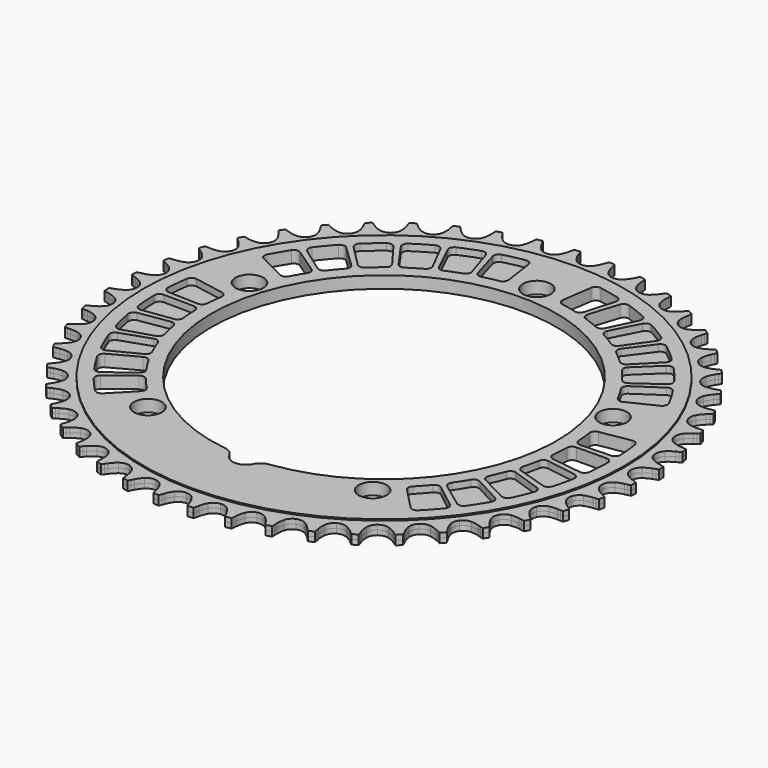
from build123d import *

# Parameters (mm, degrees)
F0_R     = 90.505656047
F0_R_2   = 5.25
F1_DEPTH = 2.25
F2_DEPTH = 1.75
F3_R     = 5.08
F5_DEPTH = 4.5
F6_DEPTH = 2.5
F7_R     = 2


with BuildPart() as f1:
    # F0 (on Top) → F1 (new body, symmetric)
    with BuildSketch(Plane.XY):
        Circle(F0_R)
        with Locations((-42.3205381651, -58.249223595)):
            Circle(F0_R_2, mode=Mode.SUBTRACT)
        with BuildLine():
            ThreePointArc((-4.9963004061, -64.8076892988), (-44.1601636013, 47.6956975073), (64.999997, 0))
            ThreePointArc((64.999997, 0), (47.6956975073, -44.1601636013), (4.9963004061, -64.8076892988))
            ThreePointArc((4.9963004061, -64.8076892988), (4.999075016, -64.903825358), (5, -64.999997))
            ThreePointArc((5, -64.999997), (-0.096171642, -69.999072016), (-4.9963004061, -64.8076892988))
        make_face(mode=Mode.SUBTRACT)
        with Locations((42.3205381651, -58.249223595)):
            Circle(F0_R_2, mode=Mode.SUBTRACT)
        with Locations((-68.4760691733, 22.249223595)):
            Circle(F0_R_2, mode=Mode.SUBTRACT)
        with Locations((0, 72)):
            Circle(F0_R_2, mode=Mode.SUBTRACT)
        with Locations((68.4760691733, 22.249223595)):
            Circle(F0_R_2, mode=Mode.SUBTRACT)
    extrude(amount=F1_DEPTH, both=True)

    # F0 (on Top) → F2 (join, symmetric)
    with BuildSketch(Plane.XY):
        with BuildLine():
            ThreePointArc((-3.2373294438, 94.6456806146), (-4.0536630433, 95.9326331176), (-4.6730144046, 97.3251312978))
            Line((-4.6730144046, 97.3251312978), (-5.0341073281, 98.3495588035))
            ThreePointArc((-5.0341073281, 98.3495588035), (-5.2235150994, 98.8412843283), (-5.4526645442, 99.3157944204))
            ThreePointArc((-5.4526645442, 99.3157944204), (-6.5053460347, 99.2524007013), (-7.5572962298, 99.1778495718))
            ThreePointArc((-7.5572962298, 99.1778495718), (-7.7225492739, 98.6774889748), (-7.8461535751, 98.1652475549))
            Line((-7.8461535751, 98.1652475549), (-8.0704426771, 97.1024520841))
            ThreePointArc((-8.0704426771, 97.1024520841), (-8.5027379165, 95.6410253441), (-9.1441066591, 94.2585299818))
            ThreePointArc((-9.1441066591, 94.2585299818), (-10.3972456968, 92.8765155439), (-12.1396749614, 92.2099860156))
            ThreePointArc((-12.1396749614, 92.2099860156), (-13.9952429247, 92.4028302225), (-15.5633739423, 93.4134174113))
            ThreePointArc((-15.5633739423, 93.4134174113), (-16.5407047045, 94.5828069409), (-17.3365149142, 95.8825505313))
            Line((-17.3365149142, 95.8825505313), (-17.8282332592, 96.8510818334))
            ThreePointArc((-17.8282332592, 96.8510818334), (-18.0802036811, 97.313877903), (-18.3693287162, 97.754418491))
            ThreePointArc((-18.3693287162, 97.754418491), (-19.4047298298, 97.5541646073), (-20.4379495701, 97.3429442197))
            ThreePointArc((-20.4379495701, 97.3429442197), (-20.5364786881, 96.8252944264), (-20.5921646153, 96.3013017041))
            Line((-20.5921646153, 96.3013017041), (-20.675812247, 95.2183229934))
            ThreePointArc((-20.675812247, 95.2183229934), (-20.9136546731, 93.7129731102), (-21.3690845618, 92.2585897677))
            ThreePointArc((-21.3690845618, 92.2585897677), (-22.4311137391, 90.7248311879), (-24.0716367186, 89.836571255))
            ThreePointArc((-24.0716367186, 89.836571255), (-25.9365012607, 89.7855654324), (-27.6231247977, 90.582824737))
            ThreePointArc((-27.6231247977, 90.582824737), (-28.7447303222, 91.6146427142), (-29.703382847, 92.7993927416))
            Line((-29.703382847, 92.7993927416), (-30.3173131763, 93.6954560009))
            ThreePointArc((-30.3173131763, 93.6954560009), (-30.6275349651, 94.1214040462), (-30.9716885809, 94.5204373585))
            ThreePointArc((-30.9716885809, 94.5204373585), (-31.9720933175, 94.1867497098), (-32.9689039268, 93.8424741035))
            ThreePointArc((-32.9689039268, 93.8424741035), (-32.9990232581, 93.3163922453), (-32.9858380097, 92.7896138813))
            Line((-32.9858380097, 92.7896138813), (-32.9274129369, 91.7049819968))
            ThreePointArc((-32.9274129369, 91.7049819968), (-32.9667329999, 90.1814659243), (-33.228431503, 88.6800795037))
            ThreePointArc((-33.228431503, 88.6800795037), (-34.0811792063, 87.0208198167), (-35.5917260975, 85.9260278528))
            ThreePointArc((-35.5917260975, 85.9260278528), (-37.4339788691, 85.6320447244), (-39.2102363292, 86.2023348172))
            ThreePointArc((-39.2102363292, 86.2023348172), (-40.4569256346, 87.0789265502), (-41.5620176639, 88.1284116132))
            Line((-41.5620176639, 88.1284116132), (-42.2876554594, 88.9366749389))
            ThreePointArc((-42.2876554594, 88.9366749389), (-42.6508206342, 89.3184868708), (-43.0441142669, 89.6691853368))
            ThreePointArc((-43.0441142669, 89.6691853368), (-43.9924054242, 89.2077734112), (-44.9357511966, 88.7363332372))
            ThreePointArc((-44.9357511966, 88.7363332372), (-44.896945391, 88.2108207207), (-44.8151145703, 87.6902700389))
            Line((-44.8151145703, 87.6902700389), (-44.6156164623, 86.6225433328))
            ThreePointArc((-44.6156164623, 86.6225433328), (-44.4557413849, 85.1069288534), (-44.5192307686, 83.5842284926))
            ThreePointArc((-44.5192307686, 83.5842284926), (-45.1481062482, 81.8278580916), (-46.502831175, 80.5452662909))
            ThreePointArc((-46.502831175, 80.5452662909), (-48.2909507205, 80.0133359895), (-50.126449846, 80.3468990488))
            ThreePointArc((-50.126449846, 80.3468990488), (-51.4768917326, 81.0532658101), (-52.7095148355, 81.9495289282))
            Line((-52.7095148355, 81.9495289282), (-53.5344442332, 82.6561627108))
            ThreePointArc((-53.5344442332, 82.6561627108), (-53.9443389373, 82.9873056213), (-54.3800432238, 83.283668693))
            ThreePointArc((-54.3800432238, 83.283668693), (-55.2599952771, 82.7024273765), (-56.1337353049, 82.111889107))
            ThreePointArc((-56.1337353049, 82.111889107), (-56.0266683406, 81.5959375969), (-55.8775920955, 81.0905213638))
            Line((-55.8775920955, 81.0905213638), (-55.5404344202, 80.0579689361))
            ThreePointArc((-55.5404344202, 80.0579689361), (-55.1840997094, 78.5761886337), (-55.0482936526, 77.0582281581))
            ThreePointArc((-55.0482936526, 77.0582281581), (-55.4425366748, 75.2347990276), (-56.6182599181, 73.7863528914))
            ThreePointArc((-56.6182599181, 73.7863528914), (-58.3216510162, 73.0255768919), (-60.1849859083, 73.1167055614))
            ThreePointArc((-60.1849859083, 73.1167055614), (-61.616073941, 73.6407612198), (-62.9551375944, 74.3684670827))
            Line((-62.9551375944, 74.3684670827), (-63.8652438237, 74.9613806221))
            ThreePointArc((-63.8652438237, 74.9613806221), (-64.3148546449, 75.2361885642), (-64.7855145642, 75.4731453873))
            ThreePointArc((-64.7855145642, 75.4731453873), (-65.5820712898, 74.78201988), (-66.3712556389, 74.0824877884))
            ThreePointArc((-66.3712556389, 74.0824877884), (-66.1977594613, 73.5849253582), (-65.9839885278, 73.1032913856))
            Line((-65.9839885278, 73.1032913856), (-65.5149401465, 72.1235804946))
            ThreePointArc((-65.5149401465, 72.1235804946), (-64.968242788, 70.7009880411), (-64.63546497, 69.2137401752))
            ThreePointArc((-64.63546497, 69.2137401752), (-64.7883299272, 67.3544516932), (-65.7649345364, 65.7649345364))
            ThreePointArc((-65.7649345364, 65.7649345364), (-67.3544516932, 64.7883299272), (-69.2137401752, 64.63546497))
            ThreePointArc((-69.2137401752, 64.63546497), (-70.7009880411, 64.968242788), (-72.1235804946, 65.5149401465))
            Line((-72.1235804946, 65.5149401465), (-73.1032913856, 65.9839885278))
            ThreePointArc((-73.1032913856, 65.9839885278), (-73.5849253582, 66.1977594613), (-74.0824877884, 66.3712556389))
            ThreePointArc((-74.0824877884, 66.3712556389), (-74.78201988, 65.5820712898), (-75.4731453873, 64.7855145642))
            ThreePointArc((-75.4731453873, 64.7855145642), (-75.2361885642, 64.3148546449), (-74.9613806221, 63.8652438237))
            Line((-74.9613806221, 63.8652438237), (-74.3684670827, 62.9551375944))
            ThreePointArc((-74.3684670827, 62.9551375944), (-73.6407612198, 61.616073941), (-73.1167055614, 60.1849859083))
            ThreePointArc((-73.1167055614, 60.1849859083), (-73.0255768919, 58.3216510162), (-73.7863528914, 56.6182599181))
            ThreePointArc((-73.7863528914, 56.6182599181), (-75.2347990276, 55.4425366748), (-77.0582281581, 55.0482936526))
            ThreePointArc((-77.0582281581, 55.0482936526), (-78.5761886337, 55.1840997094), (-80.0579689361, 55.5404344202))
            Line((-80.0579689361, 55.5404344202), (-81.0905213638, 55.8775920955))
            ThreePointArc((-81.0905213638, 55.8775920955), (-81.5959375969, 56.0266683406), (-82.111889107, 56.1337353049))
            ThreePointArc((-82.111889107, 56.1337353049), (-82.7024273765, 55.2599952771), (-83.283668693, 54.3800432238))
            ThreePointArc((-83.283668693, 54.3800432238), (-82.9873056213, 53.9443389373), (-82.6561627108, 53.5344442332))
            Line((-82.6561627108, 53.5344442332), (-81.9495289282, 52.7095148355))
            ThreePointArc((-81.9495289282, 52.7095148355), (-81.0532658101, 51.4768917326), (-80.3468990488, 50.126449846))
            ThreePointArc((-80.3468990488, 50.126449846), (-80.0133359895, 48.2909507205), (-80.5452662909, 46.502831175))
            ThreePointArc((-80.5452662909, 46.502831175), (-81.8278580916, 45.1481062482), (-83.5842284926, 44.5192307686))
            ThreePointArc((-83.5842284926, 44.5192307686), (-85.1069288534, 44.4557413849), (-86.6225433328, 44.6156164623))
            Line((-86.6225433328, 44.6156164623), (-87.6902700389, 44.8151145703))
            ThreePointArc((-87.6902700389, 44.8151145703), (-88.2108207207, 44.896945391), (-88.7363332372, 44.9357511966))
            ThreePointArc((-88.7363332372, 44.9357511966), (-89.2077734112, 43.9924054242), (-89.6691853368, 43.0441142669))
            ThreePointArc((-89.6691853368, 43.0441142669), (-89.3184868708, 42.6508206342), (-88.9366749389, 42.2876554594))
            Line((-88.9366749389, 42.2876554594), (-88.1284116132, 41.5620176639))
            ThreePointArc((-88.1284116132, 41.5620176639), (-87.0789265502, 40.4569256346), (-86.2023348172, 39.2102363292))
            ThreePointArc((-86.2023348172, 39.2102363292), (-85.6320447244, 37.4339788691), (-85.9260278528, 35.5917260975))
            ThreePointArc((-85.9260278528, 35.5917260975), (-87.0208198167, 34.0811792063), (-88.6800795037, 33.228431503))
            ThreePointArc((-88.6800795037, 33.228431503), (-90.1814659243, 32.9667329999), (-91.7049819968, 32.9274129369))
            Line((-91.7049819968, 32.9274129369), (-92.7896138813, 32.9858380097))
            ThreePointArc((-92.7896138813, 32.9858380097), (-93.3163922453, 32.9990232581), (-93.8424741035, 32.9689039268))
            ThreePointArc((-93.8424741035, 32.9689039268), (-94.1867497098, 31.9720933175), (-94.5204373585, 30.9716885809))
            ThreePointArc((-94.5204373585, 30.9716885809), (-94.1214040462, 30.6275349651), (-93.6954560009, 30.3173131763))
            Line((-93.6954560009, 30.3173131763), (-92.7993927416, 29.703382847))
            ThreePointArc((-92.7993927416, 29.703382847), (-91.6146427142, 28.7447303222), (-90.582824737, 27.6231247977))
            ThreePointArc((-90.582824737, 27.6231247977), (-89.7855654324, 25.9365012607), (-89.836571255, 24.0716367186))
            ThreePointArc((-89.836571255, 24.0716367186), (-90.7248311879, 22.4311137391), (-92.2585897677, 21.3690845618))
            ThreePointArc((-92.2585897677, 21.3690845618), (-93.7129731102, 20.9136546731), (-95.2183229934, 20.675812247))
            Line((-95.2183229934, 20.675812247), (-96.3013017041, 20.5921646153))
            ThreePointArc((-96.3013017041, 20.5921646153), (-96.8252944264, 20.5364786881), (-97.3429442197, 20.4379495701))
            ThreePointArc((-97.3429442197, 20.4379495701), (-97.5541646073, 19.4047298298), (-97.754418491, 18.3693287162))
            ThreePointArc((-97.754418491, 18.3693287162), (-97.313877903, 18.0802036811), (-96.8510818334, 17.8282332592))
            Line((-96.8510818334, 17.8282332592), (-95.8825505313, 17.3365149142))
            ThreePointArc((-95.8825505313, 17.3365149142), (-94.5828069409, 16.5407047045), (-93.4134174113, 15.5633739423))
            ThreePointArc((-93.4134174113, 15.5633739423), (-92.4028302225, 13.9952429247), (-92.2099860156, 12.1396749614))
            ThreePointArc((-92.2099860156, 12.1396749614), (-92.8765155439, 10.3972456968), (-94.2585299818, 9.1441066591))
            ThreePointArc((-94.2585299818, 9.1441066591), (-95.6410253441, 8.5027379165), (-97.1024520841, 8.0704426771))
            Line((-97.1024520841, 8.0704426771), (-98.1652475549, 7.8461535751))
            ThreePointArc((-98.1652475549, 7.8461535751), (-98.6774889748, 7.7225492739), (-99.1778495718, 7.5572962298))
            ThreePointArc((-99.1778495718, 7.5572962298), (-99.2524007013, 6.5053460347), (-99.3157944204, 5.4526645442))
            ThreePointArc((-99.3157944204, 5.4526645442), (-98.8412843283, 5.2235150994), (-98.3495588035, 5.0341073281))
            Line((-98.3495588035, 5.0341073281), (-97.3251312978, 4.6730144046))
            ThreePointArc((-97.3251312978, 4.6730144046), (-95.9326331176, 4.0536630433), (-94.6456806146, 3.2373294438))
            ThreePointArc((-94.6456806146, 3.2373294438), (-93.4390569687, 1.8145221021), (-93.00566235, 0))
            ThreePointArc((-93.00566235, 0), (-93.4390569687, -1.8145221021), (-94.6456806146, -3.2373294438))
            ThreePointArc((-94.6456806146, -3.2373294438), (-95.9326331176, -4.0536630433), (-97.3251312978, -4.6730144046))
            Line((-97.3251312978, -4.6730144046), (-98.3495588035, -5.0341073281))
            ThreePointArc((-98.3495588035, -5.0341073281), (-98.8412843283, -5.2235150994), (-99.3157944204, -5.4526645442))
            ThreePointArc((-99.3157944204, -5.4526645442), (-99.2524007013, -6.5053460347), (-99.1778495718, -7.5572962298))
            ThreePointArc((-99.1778495718, -7.5572962298), (-98.6774889748, -7.7225492739), (-98.1652475549, -7.8461535751))
            Line((-98.1652475549, -7.8461535751), (-97.1024520841, -8.0704426771))
            ThreePointArc((-97.1024520841, -8.0704426771), (-95.6410253441, -8.5027379165), (-94.2585299818, -9.1441066591))
            ThreePointArc((-94.2585299818, -9.1441066591), (-92.8765155439, -10.3972456968), (-92.2099860156, -12.1396749614))
            ThreePointArc((-92.2099860156, -12.1396749614), (-92.4028302225, -13.9952429247), (-93.4134174113, -15.5633739423))
            ThreePointArc((-93.4134174113, -15.5633739423), (-94.5828069409, -16.5407047045), (-95.8825505313, -17.3365149142))
            Line((-95.8825505313, -17.3365149142), (-96.8510818334, -17.8282332592))
            ThreePointArc((-96.8510818334, -17.8282332592), (-97.313877903, -18.0802036811), (-97.754418491, -18.3693287162))
            ThreePointArc((-97.754418491, -18.3693287162), (-97.5541646073, -19.4047298298), (-97.3429442197, -20.4379495701))
            ThreePointArc((-97.3429442197, -20.4379495701), (-96.8252944264, -20.5364786881), (-96.3013017041, -20.5921646153))
            Line((-96.3013017041, -20.5921646153), (-95.2183229934, -20.675812247))
            ThreePointArc((-95.2183229934, -20.675812247), (-93.7129731102, -20.9136546731), (-92.2585897677, -21.3690845618))
            ThreePointArc((-92.2585897677, -21.3690845618), (-90.7248311879, -22.4311137391), (-89.836571255, -24.0716367186))
            ThreePointArc((-89.836571255, -24.0716367186), (-89.7855654324, -25.9365012607), (-90.582824737, -27.6231247977))
            ThreePointArc((-90.582824737, -27.6231247977), (-91.6146427142, -28.7447303222), (-92.7993927416, -29.703382847))
            Line((-92.7993927416, -29.703382847), (-93.6954560009, -30.3173131763))
            ThreePointArc((-93.6954560009, -30.3173131763), (-94.1214040462, -30.6275349651), (-94.5204373585, -30.9716885809))
            ThreePointArc((-94.5204373585, -30.9716885809), (-94.1867497098, -31.9720933175), (-93.8424741035, -32.9689039268))
            ThreePointArc((-93.8424741035, -32.9689039268), (-93.3163922453, -32.9990232581), (-92.7896138813, -32.9858380097))
            Line((-92.7896138813, -32.9858380097), (-91.7049819968, -32.9274129369))
            ThreePointArc((-91.7049819968, -32.9274129369), (-90.1814659243, -32.9667329999), (-88.6800795037, -33.228431503))
            ThreePointArc((-88.6800795037, -33.228431503), (-87.0208198167, -34.0811792063), (-85.9260278528, -35.5917260975))
            ThreePointArc((-85.9260278528, -35.5917260975), (-85.6320447244, -37.4339788691), (-86.2023348172, -39.2102363292))
            ThreePointArc((-86.2023348172, -39.2102363292), (-87.0789265502, -40.4569256346), (-88.1284116132, -41.5620176639))
            Line((-88.1284116132, -41.5620176639), (-88.9366749389, -42.2876554594))
            ThreePointArc((-88.9366749389, -42.2876554594), (-89.3184868708, -42.6508206342), (-89.6691853368, -43.0441142669))
            ThreePointArc((-89.6691853368, -43.0441142669), (-89.2077734112, -43.9924054242), (-88.7363332372, -44.9357511966))
            ThreePointArc((-88.7363332372, -44.9357511966), (-88.2108207207, -44.896945391), (-87.6902700389, -44.8151145703))
            Line((-87.6902700389, -44.8151145703), (-86.6225433328, -44.6156164623))
            ThreePointArc((-86.6225433328, -44.6156164623), (-85.1069288534, -44.4557413849), (-83.5842284926, -44.5192307686))
            ThreePointArc((-83.5842284926, -44.5192307686), (-81.8278580916, -45.1481062482), (-80.5452662909, -46.502831175))
            ThreePointArc((-80.5452662909, -46.502831175), (-80.0133359895, -48.2909507205), (-80.3468990488, -50.126449846))
            ThreePointArc((-80.3468990488, -50.126449846), (-81.0532658101, -51.4768917326), (-81.9495289282, -52.7095148355))
            Line((-81.9495289282, -52.7095148355), (-82.6561627108, -53.5344442332))
            ThreePointArc((-82.6561627108, -53.5344442332), (-82.9873056213, -53.9443389373), (-83.283668693, -54.3800432238))
            ThreePointArc((-83.283668693, -54.3800432238), (-82.7024273765, -55.2599952771), (-82.111889107, -56.1337353049))
            ThreePointArc((-82.111889107, -56.1337353049), (-81.5959375969, -56.0266683406), (-81.0905213638, -55.8775920955))
            Line((-81.0905213638, -55.8775920955), (-80.0579689361, -55.5404344202))
            ThreePointArc((-80.0579689361, -55.5404344202), (-78.5761886337, -55.1840997094), (-77.0582281581, -55.0482936526))
            ThreePointArc((-77.0582281581, -55.0482936526), (-75.2347990276, -55.4425366748), (-73.7863528914, -56.6182599181))
            ThreePointArc((-73.7863528914, -56.6182599181), (-73.0255768919, -58.3216510162), (-73.1167055614, -60.1849859083))
            ThreePointArc((-73.1167055614, -60.1849859083), (-73.6407612198, -61.616073941), (-74.3684670827, -62.9551375944))
            Line((-74.3684670827, -62.9551375944), (-74.9613806221, -63.8652438237))
            ThreePointArc((-74.9613806221, -63.8652438237), (-75.2361885642, -64.3148546449), (-75.4731453873, -64.7855145642))
            ThreePointArc((-75.4731453873, -64.7855145642), (-74.78201988, -65.5820712898), (-74.0824877884, -66.3712556389))
            ThreePointArc((-74.0824877884, -66.3712556389), (-73.5849253582, -66.1977594613), (-73.1032913856, -65.9839885278))
            Line((-73.1032913856, -65.9839885278), (-72.1235804946, -65.5149401465))
            ThreePointArc((-72.1235804946, -65.5149401465), (-70.7009880411, -64.968242788), (-69.2137401752, -64.63546497))
            ThreePointArc((-69.2137401752, -64.63546497), (-67.3544516932, -64.7883299272), (-65.7649345364, -65.7649345364))
            ThreePointArc((-65.7649345364, -65.7649345364), (-64.7883299272, -67.3544516932), (-64.63546497, -69.2137401752))
            ThreePointArc((-64.63546497, -69.2137401752), (-64.968242788, -70.7009880411), (-65.5149401465, -72.1235804946))
            Line((-65.5149401465, -72.1235804946), (-65.9839885278, -73.1032913856))
            ThreePointArc((-65.9839885278, -73.1032913856), (-66.1977594613, -73.5849253582), (-66.3712556389, -74.0824877884))
            ThreePointArc((-66.3712556389, -74.0824877884), (-65.5820712898, -74.78201988), (-64.7855145642, -75.4731453873))
            ThreePointArc((-64.7855145642, -75.4731453873), (-64.3148546449, -75.2361885642), (-63.8652438237, -74.9613806221))
            Line((-63.8652438237, -74.9613806221), (-62.9551375944, -74.3684670827))
            ThreePointArc((-62.9551375944, -74.3684670827), (-61.616073941, -73.6407612198), (-60.1849859083, -73.1167055614))
            ThreePointArc((-60.1849859083, -73.1167055614), (-58.3216510162, -73.0255768919), (-56.6182599181, -73.7863528914))
            ThreePointArc((-56.6182599181, -73.7863528914), (-55.4425366748, -75.2347990276), (-55.0482936526, -77.0582281581))
            ThreePointArc((-55.0482936526, -77.0582281581), (-55.1840997094, -78.5761886337), (-55.5404344202, -80.0579689361))
            Line((-55.5404344202, -80.0579689361), (-55.8775920955, -81.0905213638))
            ThreePointArc((-55.8775920955, -81.0905213638), (-56.0266683406, -81.5959375969), (-56.1337353049, -82.111889107))
            ThreePointArc((-56.1337353049, -82.111889107), (-55.2599952771, -82.7024273765), (-54.3800432238, -83.283668693))
            ThreePointArc((-54.3800432238, -83.283668693), (-53.9443389373, -82.9873056213), (-53.5344442332, -82.6561627108))
            Line((-53.5344442332, -82.6561627108), (-52.7095148355, -81.9495289282))
            ThreePointArc((-52.7095148355, -81.9495289282), (-51.4768917326, -81.0532658101), (-50.126449846, -80.3468990488))
            ThreePointArc((-50.126449846, -80.3468990488), (-48.2909507205, -80.0133359895), (-46.502831175, -80.5452662909))
            ThreePointArc((-46.502831175, -80.5452662909), (-45.1481062482, -81.8278580916), (-44.5192307686, -83.5842284926))
            ThreePointArc((-44.5192307686, -83.5842284926), (-44.4557413849, -85.1069288534), (-44.6156164623, -86.6225433328))
            Line((-44.6156164623, -86.6225433328), (-44.8151145703, -87.6902700389))
            ThreePointArc((-44.8151145703, -87.6902700389), (-44.896945391, -88.2108207207), (-44.9357511966, -88.7363332372))
            ThreePointArc((-44.9357511966, -88.7363332372), (-43.9924054242, -89.2077734112), (-43.0441142669, -89.6691853368))
            ThreePointArc((-43.0441142669, -89.6691853368), (-42.6508206342, -89.3184868708), (-42.2876554594, -88.9366749389))
            Line((-42.2876554594, -88.9366749389), (-41.5620176639, -88.1284116132))
            ThreePointArc((-41.5620176639, -88.1284116132), (-40.4569256346, -87.0789265502), (-39.2102363292, -86.2023348172))
            ThreePointArc((-39.2102363292, -86.2023348172), (-37.4339788691, -85.6320447244), (-35.5917260975, -85.9260278528))
            ThreePointArc((-35.5917260975, -85.9260278528), (-34.0811792063, -87.0208198167), (-33.228431503, -88.6800795037))
            ThreePointArc((-33.228431503, -88.6800795037), (-32.9667329999, -90.1814659243), (-32.9274129369, -91.7049819968))
            Line((-32.9274129369, -91.7049819968), (-32.9858380097, -92.7896138813))
            ThreePointArc((-32.9858380097, -92.7896138813), (-32.9990232581, -93.3163922453), (-32.9689039268, -93.8424741035))
            ThreePointArc((-32.9689039268, -93.8424741035), (-31.9720933175, -94.1867497098), (-30.9716885809, -94.5204373585))
            ThreePointArc((-30.9716885809, -94.5204373585), (-30.6275349651, -94.1214040462), (-30.3173131763, -93.6954560009))
            Line((-30.3173131763, -93.6954560009), (-29.703382847, -92.7993927416))
            ThreePointArc((-29.703382847, -92.7993927416), (-28.7447303222, -91.6146427142), (-27.6231247977, -90.582824737))
            ThreePointArc((-27.6231247977, -90.582824737), (-25.9365012607, -89.7855654324), (-24.0716367186, -89.836571255))
            ThreePointArc((-24.0716367186, -89.836571255), (-22.4311137391, -90.7248311879), (-21.3690845618, -92.2585897677))
            ThreePointArc((-21.3690845618, -92.2585897677), (-20.9136546731, -93.7129731102), (-20.675812247, -95.2183229934))
            Line((-20.675812247, -95.2183229934), (-20.5921646153, -96.3013017041))
            ThreePointArc((-20.5921646153, -96.3013017041), (-20.5364786881, -96.8252944264), (-20.4379495701, -97.3429442197))
            ThreePointArc((-20.4379495701, -97.3429442197), (-19.4047298298, -97.5541646073), (-18.3693287162, -97.754418491))
            ThreePointArc((-18.3693287162, -97.754418491), (-18.0802036811, -97.313877903), (-17.8282332592, -96.8510818334))
            Line((-17.8282332592, -96.8510818334), (-17.3365149142, -95.8825505313))
            ThreePointArc((-17.3365149142, -95.8825505313), (-16.5407047045, -94.5828069409), (-15.5633739423, -93.4134174113))
            ThreePointArc((-15.5633739423, -93.4134174113), (-13.9952429247, -92.4028302225), (-12.1396749614, -92.2099860156))
            ThreePointArc((-12.1396749614, -92.2099860156), (-10.3972456968, -92.8765155439), (-9.1441066591, -94.2585299818))
            ThreePointArc((-9.1441066591, -94.2585299818), (-8.5027379165, -95.6410253441), (-8.0704426771, -97.1024520841))
            Line((-8.0704426771, -97.1024520841), (-7.8461535751, -98.1652475549))
            ThreePointArc((-7.8461535751, -98.1652475549), (-7.7225492739, -98.6774889748), (-7.5572962298, -99.1778495718))
            ThreePointArc((-7.5572962298, -99.1778495718), (-6.5053460347, -99.2524007013), (-5.4526645442, -99.3157944204))
            ThreePointArc((-5.4526645442, -99.3157944204), (-5.2235150994, -98.8412843283), (-5.0341073281, -98.3495588035))
            Line((-5.0341073281, -98.3495588035), (-4.6730144046, -97.3251312978))
            ThreePointArc((-4.6730144046, -97.3251312978), (-4.0536630433, -95.9326331176), (-3.2373294438, -94.6456806146))
            ThreePointArc((-3.2373294438, -94.6456806146), (-1.8145221021, -93.4390569687), (0, -93.00566235))
            ThreePointArc((0, -93.00566235), (1.8145221021, -93.4390569687), (3.2373294438, -94.6456806146))
            ThreePointArc((3.2373294438, -94.6456806146), (4.0536630433, -95.9326331176), (4.6730144046, -97.3251312978))
            Line((4.6730144046, -97.3251312978), (5.0341073281, -98.3495588035))
            ThreePointArc((5.0341073281, -98.3495588035), (5.2235150994, -98.8412843283), (5.4526645442, -99.3157944204))
            ThreePointArc((5.4526645442, -99.3157944204), (6.5053460347, -99.2524007013), (7.5572962298, -99.1778495718))
            ThreePointArc((7.5572962298, -99.1778495718), (7.7225492739, -98.6774889748), (7.8461535751, -98.1652475549))
            Line((7.8461535751, -98.1652475549), (8.0704426771, -97.1024520841))
            ThreePointArc((8.0704426771, -97.1024520841), (8.5027379165, -95.6410253441), (9.1441066591, -94.2585299818))
            ThreePointArc((9.1441066591, -94.2585299818), (10.3972456968, -92.8765155439), (12.1396749614, -92.2099860156))
            ThreePointArc((12.1396749614, -92.2099860156), (13.9952429247, -92.4028302225), (15.5633739423, -93.4134174113))
            ThreePointArc((15.5633739423, -93.4134174113), (16.5407047045, -94.5828069409), (17.3365149142, -95.8825505313))
            Line((17.3365149142, -95.8825505313), (17.8282332592, -96.8510818334))
            ThreePointArc((17.8282332592, -96.8510818334), (18.0802036811, -97.313877903), (18.3693287162, -97.754418491))
            ThreePointArc((18.3693287162, -97.754418491), (19.4047298298, -97.5541646073), (20.4379495701, -97.3429442197))
            ThreePointArc((20.4379495701, -97.3429442197), (20.5364786881, -96.8252944264), (20.5921646153, -96.3013017041))
            Line((20.5921646153, -96.3013017041), (20.675812247, -95.2183229934))
            ThreePointArc((20.675812247, -95.2183229934), (20.9136546731, -93.7129731102), (21.3690845618, -92.2585897677))
            ThreePointArc((21.3690845618, -92.2585897677), (22.4311137391, -90.7248311879), (24.0716367186, -89.836571255))
            ThreePointArc((24.0716367186, -89.836571255), (25.9365012607, -89.7855654324), (27.6231247977, -90.582824737))
            ThreePointArc((27.6231247977, -90.582824737), (28.7447303222, -91.6146427142), (29.703382847, -92.7993927416))
            Line((29.703382847, -92.7993927416), (30.3173131763, -93.6954560009))
            ThreePointArc((30.3173131763, -93.6954560009), (30.6275349651, -94.1214040462), (30.9716885809, -94.5204373585))
            ThreePointArc((30.9716885809, -94.5204373585), (31.9720933175, -94.1867497098), (32.9689039268, -93.8424741035))
            ThreePointArc((32.9689039268, -93.8424741035), (32.9990232581, -93.3163922453), (32.9858380097, -92.7896138813))
            Line((32.9858380097, -92.7896138813), (32.9274129369, -91.7049819968))
            ThreePointArc((32.9274129369, -91.7049819968), (32.9667329999, -90.1814659243), (33.228431503, -88.6800795037))
            ThreePointArc((33.228431503, -88.6800795037), (34.0811792063, -87.0208198167), (35.5917260975, -85.9260278528))
            ThreePointArc((35.5917260975, -85.9260278528), (37.4339788691, -85.6320447244), (39.2102363292, -86.2023348172))
            ThreePointArc((39.2102363292, -86.2023348172), (40.4569256346, -87.0789265502), (41.5620176639, -88.1284116132))
            Line((41.5620176639, -88.1284116132), (42.2876554594, -88.9366749389))
            ThreePointArc((42.2876554594, -88.9366749389), (42.6508206342, -89.3184868708), (43.0441142669, -89.6691853368))
            ThreePointArc((43.0441142669, -89.6691853368), (43.9924054242, -89.2077734112), (44.9357511966, -88.7363332372))
            ThreePointArc((44.9357511966, -88.7363332372), (44.896945391, -88.2108207207), (44.8151145703, -87.6902700389))
            Line((44.8151145703, -87.6902700389), (44.6156164623, -86.6225433328))
            ThreePointArc((44.6156164623, -86.6225433328), (44.4557413849, -85.1069288534), (44.5192307686, -83.5842284926))
            ThreePointArc((44.5192307686, -83.5842284926), (45.1481062482, -81.8278580916), (46.502831175, -80.5452662909))
            ThreePointArc((46.502831175, -80.5452662909), (48.2909507205, -80.0133359895), (50.126449846, -80.3468990488))
            ThreePointArc((50.126449846, -80.3468990488), (51.4768917326, -81.0532658101), (52.7095148355, -81.9495289282))
            Line((52.7095148355, -81.9495289282), (53.5344442332, -82.6561627108))
            ThreePointArc((53.5344442332, -82.6561627108), (53.9443389373, -82.9873056213), (54.3800432238, -83.283668693))
            ThreePointArc((54.3800432238, -83.283668693), (55.2599952771, -82.7024273765), (56.1337353049, -82.111889107))
            ThreePointArc((56.1337353049, -82.111889107), (56.0266683406, -81.5959375969), (55.8775920955, -81.0905213638))
            Line((55.8775920955, -81.0905213638), (55.5404344202, -80.0579689361))
            ThreePointArc((55.5404344202, -80.0579689361), (55.1840997094, -78.5761886337), (55.0482936526, -77.0582281581))
            ThreePointArc((55.0482936526, -77.0582281581), (55.4425366748, -75.2347990276), (56.6182599181, -73.7863528914))
            ThreePointArc((56.6182599181, -73.7863528914), (58.3216510162, -73.0255768919), (60.1849859083, -73.1167055614))
            ThreePointArc((60.1849859083, -73.1167055614), (61.616073941, -73.6407612198), (62.9551375944, -74.3684670827))
            Line((62.9551375944, -74.3684670827), (63.8652438237, -74.9613806221))
            ThreePointArc((63.8652438237, -74.9613806221), (64.3148546449, -75.2361885642), (64.7855145642, -75.4731453873))
            ThreePointArc((64.7855145642, -75.4731453873), (65.5820712898, -74.78201988), (66.3712556389, -74.0824877884))
            ThreePointArc((66.3712556389, -74.0824877884), (66.1977594613, -73.5849253582), (65.9839885278, -73.1032913856))
            Line((65.9839885278, -73.1032913856), (65.5149401465, -72.1235804946))
            ThreePointArc((65.5149401465, -72.1235804946), (64.968242788, -70.7009880411), (64.63546497, -69.2137401752))
            ThreePointArc((64.63546497, -69.2137401752), (64.7883299272, -67.3544516932), (65.7649345364, -65.7649345364))
            ThreePointArc((65.7649345364, -65.7649345364), (67.3544516932, -64.7883299272), (69.2137401752, -64.63546497))
            ThreePointArc((69.2137401752, -64.63546497), (70.7009880411, -64.968242788), (72.1235804946, -65.5149401465))
            Line((72.1235804946, -65.5149401465), (73.1032913856, -65.9839885278))
            ThreePointArc((73.1032913856, -65.9839885278), (73.5849253582, -66.1977594613), (74.0824877884, -66.3712556389))
            ThreePointArc((74.0824877884, -66.3712556389), (74.78201988, -65.5820712898), (75.4731453873, -64.7855145642))
            ThreePointArc((75.4731453873, -64.7855145642), (75.2361885642, -64.3148546449), (74.9613806221, -63.8652438237))
            Line((74.9613806221, -63.8652438237), (74.3684670827, -62.9551375944))
            ThreePointArc((74.3684670827, -62.9551375944), (73.6407612198, -61.616073941), (73.1167055614, -60.1849859083))
            ThreePointArc((73.1167055614, -60.1849859083), (73.0255768919, -58.3216510162), (73.7863528914, -56.6182599181))
            ThreePointArc((73.7863528914, -56.6182599181), (75.2347990276, -55.4425366748), (77.0582281581, -55.0482936526))
            ThreePointArc((77.0582281581, -55.0482936526), (78.5761886337, -55.1840997094), (80.0579689361, -55.5404344202))
            Line((80.0579689361, -55.5404344202), (81.0905213638, -55.8775920955))
            ThreePointArc((81.0905213638, -55.8775920955), (81.5959375969, -56.0266683406), (82.111889107, -56.1337353049))
            ThreePointArc((82.111889107, -56.1337353049), (82.7024273765, -55.2599952771), (83.283668693, -54.3800432238))
            ThreePointArc((83.283668693, -54.3800432238), (82.9873056213, -53.9443389373), (82.6561627108, -53.5344442332))
            Line((82.6561627108, -53.5344442332), (81.9495289282, -52.7095148355))
            ThreePointArc((81.9495289282, -52.7095148355), (81.0532658101, -51.4768917326), (80.3468990488, -50.126449846))
            ThreePointArc((80.3468990488, -50.126449846), (80.0133359895, -48.2909507205), (80.5452662909, -46.502831175))
            ThreePointArc((80.5452662909, -46.502831175), (81.8278580916, -45.1481062482), (83.5842284926, -44.5192307686))
            ThreePointArc((83.5842284926, -44.5192307686), (85.1069288534, -44.4557413849), (86.6225433328, -44.6156164623))
            Line((86.6225433328, -44.6156164623), (87.6902700389, -44.8151145703))
            ThreePointArc((87.6902700389, -44.8151145703), (88.2108207207, -44.896945391), (88.7363332372, -44.9357511966))
            ThreePointArc((88.7363332372, -44.9357511966), (89.2077734112, -43.9924054242), (89.6691853368, -43.0441142669))
            ThreePointArc((89.6691853368, -43.0441142669), (89.3184868708, -42.6508206342), (88.9366749389, -42.2876554594))
            Line((88.9366749389, -42.2876554594), (88.1284116132, -41.5620176639))
            ThreePointArc((88.1284116132, -41.5620176639), (87.0789265502, -40.4569256346), (86.2023348172, -39.2102363292))
            ThreePointArc((86.2023348172, -39.2102363292), (85.6320447244, -37.4339788691), (85.9260278528, -35.5917260975))
            ThreePointArc((85.9260278528, -35.5917260975), (87.0208198167, -34.0811792063), (88.6800795037, -33.228431503))
            ThreePointArc((88.6800795037, -33.228431503), (90.1814659243, -32.9667329999), (91.7049819968, -32.9274129369))
            Line((91.7049819968, -32.9274129369), (92.7896138813, -32.9858380097))
            ThreePointArc((92.7896138813, -32.9858380097), (93.3163922453, -32.9990232581), (93.8424741035, -32.9689039268))
            ThreePointArc((93.8424741035, -32.9689039268), (94.1867497098, -31.9720933175), (94.5204373585, -30.9716885809))
            ThreePointArc((94.5204373585, -30.9716885809), (94.1214040462, -30.6275349651), (93.6954560009, -30.3173131763))
            Line((93.6954560009, -30.3173131763), (92.7993927416, -29.703382847))
            ThreePointArc((92.7993927416, -29.703382847), (91.6146427142, -28.7447303222), (90.582824737, -27.6231247977))
            ThreePointArc((90.582824737, -27.6231247977), (89.7855654324, -25.9365012607), (89.836571255, -24.0716367186))
            ThreePointArc((89.836571255, -24.0716367186), (90.7248311879, -22.4311137391), (92.2585897677, -21.3690845618))
            ThreePointArc((92.2585897677, -21.3690845618), (93.7129731102, -20.9136546731), (95.2183229934, -20.675812247))
            Line((95.2183229934, -20.675812247), (96.3013017041, -20.5921646153))
            ThreePointArc((96.3013017041, -20.5921646153), (96.8252944264, -20.5364786881), (97.3429442197, -20.4379495701))
            ThreePointArc((97.3429442197, -20.4379495701), (97.5541646073, -19.4047298298), (97.754418491, -18.3693287162))
            ThreePointArc((97.754418491, -18.3693287162), (97.313877903, -18.0802036811), (96.8510818334, -17.8282332592))
            Line((96.8510818334, -17.8282332592), (95.8825505313, -17.3365149142))
            ThreePointArc((95.8825505313, -17.3365149142), (94.5828069409, -16.5407047045), (93.4134174113, -15.5633739423))
            ThreePointArc((93.4134174113, -15.5633739423), (92.4028302225, -13.9952429247), (92.2099860156, -12.1396749614))
            ThreePointArc((92.2099860156, -12.1396749614), (92.8765155439, -10.3972456968), (94.2585299818, -9.1441066591))
            ThreePointArc((94.2585299818, -9.1441066591), (95.6410253441, -8.5027379165), (97.1024520841, -8.0704426771))
            Line((97.1024520841, -8.0704426771), (98.1652475549, -7.8461535751))
            ThreePointArc((98.1652475549, -7.8461535751), (98.6774889748, -7.7225492739), (99.1778495718, -7.5572962298))
            ThreePointArc((99.1778495718, -7.5572962298), (99.2524007013, -6.5053460347), (99.3157944204, -5.4526645442))
            ThreePointArc((99.3157944204, -5.4526645442), (98.8412843283, -5.2235150994), (98.3495588035, -5.0341073281))
            Line((98.3495588035, -5.0341073281), (97.3251312978, -4.6730144046))
            ThreePointArc((97.3251312978, -4.6730144046), (95.9326331176, -4.0536630433), (94.6456806146, -3.2373294438))
            ThreePointArc((94.6456806146, -3.2373294438), (93.4390569687, -1.8145221021), (93.00566235, 0))
            ThreePointArc((93.00566235, 0), (93.4390569687, 1.8145221021), (94.6456806146, 3.2373294438))
            ThreePointArc((94.6456806146, 3.2373294438), (95.9326331176, 4.0536630433), (97.3251312978, 4.6730144046))
            Line((97.3251312978, 4.6730144046), (98.3495588035, 5.0341073281))
            ThreePointArc((98.3495588035, 5.0341073281), (98.8412843283, 5.2235150994), (99.3157944204, 5.4526645442))
            ThreePointArc((99.3157944204, 5.4526645442), (99.2524007013, 6.5053460347), (99.1778495718, 7.5572962298))
            ThreePointArc((99.1778495718, 7.5572962298), (98.6774889748, 7.7225492739), (98.1652475549, 7.8461535751))
            Line((98.1652475549, 7.8461535751), (97.1024520841, 8.0704426771))
            ThreePointArc((97.1024520841, 8.0704426771), (95.6410253441, 8.5027379165), (94.2585299818, 9.1441066591))
            ThreePointArc((94.2585299818, 9.1441066591), (92.8765155439, 10.3972456968), (92.2099860156, 12.1396749614))
            ThreePointArc((92.2099860156, 12.1396749614), (92.4028302225, 13.9952429247), (93.4134174113, 15.5633739423))
            ThreePointArc((93.4134174113, 15.5633739423), (94.5828069409, 16.5407047045), (95.8825505313, 17.3365149142))
            Line((95.8825505313, 17.3365149142), (96.8510818334, 17.8282332592))
            ThreePointArc((96.8510818334, 17.8282332592), (97.313877903, 18.0802036811), (97.754418491, 18.3693287162))
            ThreePointArc((97.754418491, 18.3693287162), (97.5541646073, 19.4047298298), (97.3429442197, 20.4379495701))
            ThreePointArc((97.3429442197, 20.4379495701), (96.8252944264, 20.5364786881), (96.3013017041, 20.5921646153))
            Line((96.3013017041, 20.5921646153), (95.2183229934, 20.675812247))
            ThreePointArc((95.2183229934, 20.675812247), (93.7129731102, 20.9136546731), (92.2585897677, 21.3690845618))
            ThreePointArc((92.2585897677, 21.3690845618), (90.7248311879, 22.4311137391), (89.836571255, 24.0716367186))
            ThreePointArc((89.836571255, 24.0716367186), (89.7855654324, 25.9365012607), (90.582824737, 27.6231247977))
            ThreePointArc((90.582824737, 27.6231247977), (91.6146427142, 28.7447303222), (92.7993927416, 29.703382847))
            Line((92.7993927416, 29.703382847), (93.6954560009, 30.3173131763))
            ThreePointArc((93.6954560009, 30.3173131763), (94.1214040462, 30.6275349651), (94.5204373585, 30.9716885809))
            ThreePointArc((94.5204373585, 30.9716885809), (94.1867497098, 31.9720933175), (93.8424741035, 32.9689039268))
            ThreePointArc((93.8424741035, 32.9689039268), (93.3163922453, 32.9990232581), (92.7896138813, 32.9858380097))
            Line((92.7896138813, 32.9858380097), (91.7049819968, 32.9274129369))
            ThreePointArc((91.7049819968, 32.9274129369), (90.1814659243, 32.9667329999), (88.6800795037, 33.228431503))
            ThreePointArc((88.6800795037, 33.228431503), (87.0208198167, 34.0811792063), (85.9260278528, 35.5917260975))
            ThreePointArc((85.9260278528, 35.5917260975), (85.6320447244, 37.4339788691), (86.2023348172, 39.2102363292))
            ThreePointArc((86.2023348172, 39.2102363292), (87.0789265502, 40.4569256346), (88.1284116132, 41.5620176639))
            Line((88.1284116132, 41.5620176639), (88.9366749389, 42.2876554594))
            ThreePointArc((88.9366749389, 42.2876554594), (89.3184868708, 42.6508206342), (89.6691853368, 43.0441142669))
            ThreePointArc((89.6691853368, 43.0441142669), (89.2077734112, 43.9924054242), (88.7363332372, 44.9357511966))
            ThreePointArc((88.7363332372, 44.9357511966), (88.2108207207, 44.896945391), (87.6902700389, 44.8151145703))
            Line((87.6902700389, 44.8151145703), (86.6225433328, 44.6156164623))
            ThreePointArc((86.6225433328, 44.6156164623), (85.1069288534, 44.4557413849), (83.5842284926, 44.5192307686))
            ThreePointArc((83.5842284926, 44.5192307686), (81.8278580916, 45.1481062482), (80.5452662909, 46.502831175))
            ThreePointArc((80.5452662909, 46.502831175), (80.0133359895, 48.2909507205), (80.3468990488, 50.126449846))
            ThreePointArc((80.3468990488, 50.126449846), (81.0532658101, 51.4768917326), (81.9495289282, 52.7095148355))
            Line((81.9495289282, 52.7095148355), (82.6561627108, 53.5344442332))
            ThreePointArc((82.6561627108, 53.5344442332), (82.9873056213, 53.9443389373), (83.283668693, 54.3800432238))
            ThreePointArc((83.283668693, 54.3800432238), (82.7024273765, 55.2599952771), (82.111889107, 56.1337353049))
            ThreePointArc((82.111889107, 56.1337353049), (81.5959375969, 56.0266683406), (81.0905213638, 55.8775920955))
            Line((81.0905213638, 55.8775920955), (80.0579689361, 55.5404344202))
            ThreePointArc((80.0579689361, 55.5404344202), (78.5761886337, 55.1840997094), (77.0582281581, 55.0482936526))
            ThreePointArc((77.0582281581, 55.0482936526), (75.2347990276, 55.4425366748), (73.7863528914, 56.6182599181))
            ThreePointArc((73.7863528914, 56.6182599181), (73.0255768919, 58.3216510162), (73.1167055614, 60.1849859083))
            ThreePointArc((73.1167055614, 60.1849859083), (73.6407612198, 61.616073941), (74.3684670827, 62.9551375944))
            Line((74.3684670827, 62.9551375944), (74.9613806221, 63.8652438237))
            ThreePointArc((74.9613806221, 63.8652438237), (75.2361885642, 64.3148546449), (75.4731453873, 64.7855145642))
            ThreePointArc((75.4731453873, 64.7855145642), (74.78201988, 65.5820712898), (74.0824877884, 66.3712556389))
            ThreePointArc((74.0824877884, 66.3712556389), (73.5849253582, 66.1977594613), (73.1032913856, 65.9839885278))
            Line((73.1032913856, 65.9839885278), (72.1235804946, 65.5149401465))
            ThreePointArc((72.1235804946, 65.5149401465), (70.7009880411, 64.968242788), (69.2137401752, 64.63546497))
            ThreePointArc((69.2137401752, 64.63546497), (67.3544516932, 64.7883299272), (65.7649345364, 65.7649345364))
            ThreePointArc((65.7649345364, 65.7649345364), (64.7883299272, 67.3544516932), (64.63546497, 69.2137401752))
            ThreePointArc((64.63546497, 69.2137401752), (64.968242788, 70.7009880411), (65.5149401465, 72.1235804946))
            Line((65.5149401465, 72.1235804946), (65.9839885278, 73.1032913856))
            ThreePointArc((65.9839885278, 73.1032913856), (66.1977594613, 73.5849253582), (66.3712556389, 74.0824877884))
            ThreePointArc((66.3712556389, 74.0824877884), (65.5820712898, 74.78201988), (64.7855145642, 75.4731453873))
            ThreePointArc((64.7855145642, 75.4731453873), (64.3148546449, 75.2361885642), (63.8652438237, 74.9613806221))
            Line((63.8652438237, 74.9613806221), (62.9551375944, 74.3684670827))
            ThreePointArc((62.9551375944, 74.3684670827), (61.616073941, 73.6407612198), (60.1849859083, 73.1167055614))
            ThreePointArc((60.1849859083, 73.1167055614), (58.3216510162, 73.0255768919), (56.6182599181, 73.7863528914))
            ThreePointArc((56.6182599181, 73.7863528914), (55.4425366748, 75.2347990276), (55.0482936526, 77.0582281581))
            ThreePointArc((55.0482936526, 77.0582281581), (55.1840997094, 78.5761886337), (55.5404344202, 80.0579689361))
            Line((55.5404344202, 80.0579689361), (55.8775920955, 81.0905213638))
            ThreePointArc((55.8775920955, 81.0905213638), (56.0266683406, 81.5959375969), (56.1337353049, 82.111889107))
            ThreePointArc((56.1337353049, 82.111889107), (55.2599952771, 82.7024273765), (54.3800432238, 83.283668693))
            ThreePointArc((54.3800432238, 83.283668693), (53.9443389373, 82.9873056213), (53.5344442332, 82.6561627108))
            Line((53.5344442332, 82.6561627108), (52.7095148355, 81.9495289282))
            ThreePointArc((52.7095148355, 81.9495289282), (51.4768917326, 81.0532658101), (50.126449846, 80.3468990488))
            ThreePointArc((50.126449846, 80.3468990488), (48.2909507205, 80.0133359895), (46.502831175, 80.5452662909))
            ThreePointArc((46.502831175, 80.5452662909), (45.1481062482, 81.8278580916), (44.5192307686, 83.5842284926))
            ThreePointArc((44.5192307686, 83.5842284926), (44.4557413849, 85.1069288534), (44.6156164623, 86.6225433328))
            Line((44.6156164623, 86.6225433328), (44.8151145703, 87.6902700389))
            ThreePointArc((44.8151145703, 87.6902700389), (44.896945391, 88.2108207207), (44.9357511966, 88.7363332372))
            ThreePointArc((44.9357511966, 88.7363332372), (43.9924054242, 89.2077734112), (43.0441142669, 89.6691853368))
            ThreePointArc((43.0441142669, 89.6691853368), (42.6508206342, 89.3184868708), (42.2876554594, 88.9366749389))
            Line((42.2876554594, 88.9366749389), (41.5620176639, 88.1284116132))
            ThreePointArc((41.5620176639, 88.1284116132), (40.4569256346, 87.0789265502), (39.2102363292, 86.2023348172))
            ThreePointArc((39.2102363292, 86.2023348172), (37.4339788691, 85.6320447244), (35.5917260975, 85.9260278528))
            ThreePointArc((35.5917260975, 85.9260278528), (34.0811792063, 87.0208198167), (33.228431503, 88.6800795037))
            ThreePointArc((33.228431503, 88.6800795037), (32.9667329999, 90.1814659243), (32.9274129369, 91.7049819968))
            Line((32.9274129369, 91.7049819968), (32.9858380097, 92.7896138813))
            ThreePointArc((32.9858380097, 92.7896138813), (32.9990232581, 93.3163922453), (32.9689039268, 93.8424741035))
            ThreePointArc((32.9689039268, 93.8424741035), (31.9720933175, 94.1867497098), (30.9716885809, 94.5204373585))
            ThreePointArc((30.9716885809, 94.5204373585), (30.6275349651, 94.1214040462), (30.3173131763, 93.6954560009))
            Line((30.3173131763, 93.6954560009), (29.703382847, 92.7993927416))
            ThreePointArc((29.703382847, 92.7993927416), (28.7447303222, 91.6146427142), (27.6231247977, 90.582824737))
            ThreePointArc((27.6231247977, 90.582824737), (25.9365012607, 89.7855654324), (24.0716367186, 89.836571255))
            ThreePointArc((24.0716367186, 89.836571255), (22.4311137391, 90.7248311879), (21.3690845618, 92.2585897677))
            ThreePointArc((21.3690845618, 92.2585897677), (20.9136546731, 93.7129731102), (20.675812247, 95.2183229934))
            Line((20.675812247, 95.2183229934), (20.5921646153, 96.3013017041))
            ThreePointArc((20.5921646153, 96.3013017041), (20.5364786881, 96.8252944264), (20.4379495701, 97.3429442197))
            ThreePointArc((20.4379495701, 97.3429442197), (19.4047298298, 97.5541646073), (18.3693287162, 97.754418491))
            ThreePointArc((18.3693287162, 97.754418491), (18.0802036811, 97.313877903), (17.8282332592, 96.8510818334))
            Line((17.8282332592, 96.8510818334), (17.3365149142, 95.8825505313))
            ThreePointArc((17.3365149142, 95.8825505313), (16.5407047045, 94.5828069409), (15.5633739423, 93.4134174113))
            ThreePointArc((15.5633739423, 93.4134174113), (13.9952429247, 92.4028302225), (12.1396749614, 92.2099860156))
            ThreePointArc((12.1396749614, 92.2099860156), (10.3972456968, 92.8765155439), (9.1441066591, 94.2585299818))
            ThreePointArc((9.1441066591, 94.2585299818), (8.5027379165, 95.6410253441), (8.0704426771, 97.1024520841))
            Line((8.0704426771, 97.1024520841), (7.8461535751, 98.1652475549))
            ThreePointArc((7.8461535751, 98.1652475549), (7.7225492739, 98.6774889748), (7.5572962298, 99.1778495718))
            ThreePointArc((7.5572962298, 99.1778495718), (6.5053460347, 99.2524007013), (5.4526645442, 99.3157944204))
            ThreePointArc((5.4526645442, 99.3157944204), (5.2235150994, 98.8412843283), (5.0341073281, 98.3495588035))
            Line((5.0341073281, 98.3495588035), (4.6730144046, 97.3251312978))
            ThreePointArc((4.6730144046, 97.3251312978), (4.0536630433, 95.9326331176), (3.2373294438, 94.6456806146))
            ThreePointArc((3.2373294438, 94.6456806146), (1.8145221021, 93.4390569687), (0, 93.00566235))
            ThreePointArc((0, 93.00566235), (-1.8145221021, 93.4390569687), (-3.2373294438, 94.6456806146))
        make_face()
        Circle(F0_R, mode=Mode.SUBTRACT)
    extrude(amount=F2_DEPTH, both=True)

    # F3
    f3_edges = [f1.edges().sort_by_distance(p)[0] for p in [
        (4.9963, -64.807689, 0),
        (-4.9963, -64.807689, 0),
    ]]
    fillet(f3_edges, radius=F3_R)

    # F4 (on face) → F5 (cut)
    with BuildSketch(Plane.XY.offset(2.25)):
        with BuildLine():
            Line((-55.3101631489, -43.0347746824), (-67.4216206525, -52.4582479659))
            ThreePointArc((-67.4216206525, -52.4582479659), (-63.6647188786, -56.9591632765), (-59.6079464782, -61.1917921597))
            Line((-59.6079464782, -61.1917921597), (-48.9001185788, -50.1994460378))
            ThreePointArc((-48.9001185788, -50.1994460378), (-52.2281421587, -46.7271564101), (-55.3101631489, -43.0347746824))
        make_face()
        with BuildLine():
            ThreePointArc((-56.4177288097, -41.5721764583), (-59.2021627772, -37.5007986851), (-61.69332038, -33.2436490177))
            Line((-61.69332038, -33.2436490177), (-75.2025198742, -40.5231256893))
            ThreePointArc((-75.2025198742, -40.5231256893), (-72.165864885, -45.7124781264), (-68.7717137923, -50.6753795559))
            Line((-68.7717137923, -50.6753795559), (-56.4177288097, -41.5721764583))
        make_face()
        with BuildLine():
            Line((-58.0202832636, 39.3046143541), (-70.7251851313, 47.9112815441))
            ThreePointArc((-70.7251851313, 47.9112815441), (-73.8448634725, 42.9473963098), (-76.6167211388, 37.7812222275))
            Line((-76.6167211388, 37.7812222275), (-62.8534779364, 30.9942944881))
            ThreePointArc((-62.8534779364, 30.9942944881), (-60.5795501034, 35.2324295045), (-58.0202832636, 39.3046143541))
        make_face()
        with BuildLine():
            ThreePointArc((-56.9715263034, 40.8099396003), (-53.9598533576, 44.7162185917), (-50.6808734606, 48.4009818577))
            Line((-50.6808734606, 48.4009818577), (-61.7786394084, 58.999512065))
            ThreePointArc((-61.7786394084, 58.999512065), (-65.7756288613, 54.5078834569), (-69.4467782365, 49.7462330598))
            Line((-69.4467782365, 49.7462330598), (-56.9715263034, 40.8099396003))
        make_face()
        with BuildLine():
            Line((19.4516560551, 67.326362268), (23.7110523807, 82.0690484048))
            ThreePointArc((23.7110523807, 82.0690484048), (18.0260833581, 83.5021139243), (12.2562087079, 84.5418716328))
            Line((12.2562087079, 84.5418716328), (10.0545329029, 69.3549734887))
            ThreePointArc((10.0545329029, 69.3549734887), (14.7879211716, 68.5019953501), (19.4516560551, 67.326362268))
        make_face()
        with BuildLine():
            ThreePointArc((21.2073891632, 66.7941062101), (25.8531393743, 65.1369416231), (30.3708180018, 63.1571008947))
            Line((30.3708180018, 63.1571008947), (37.0212209411, 76.9868294651))
            ThreePointArc((37.0212209411, 76.9868294651), (31.5142906173, 79.4002027576), (25.851244433, 81.4202423991))
            Line((25.851244433, 81.4202423991), (21.2073891632, 66.7941062101))
        make_face()
        with BuildLine():
            Line((84.1914746935, 14.4685279141), (69.0675210114, 11.8694364168))
            ThreePointArc((69.0675210114, 11.8694364168), (69.7189880104, 7.1041319191), (70.0420678431, 2.3053658664))
            Line((70.0420678431, 2.3053658664), (85.3794214116, 2.8101797944))
            ThreePointArc((85.3794214116, 2.8101797944), (84.9855956718, 8.6597482279), (84.1914746935, 14.4685279141))
        make_face()
        with BuildLine():
            Line((85.4237259475, 0.5742441151), (70.0784136189, 0.4710882857))
            ThreePointArc((70.0784136189, 0.4710882857), (69.9379722068, -4.4593747454), (69.4510712518, -9.3677468739))
            Line((69.4510712518, -9.3677468739), (84.659012255, -11.4190347695))
            ThreePointArc((84.659012255, -11.4190347695), (85.2525315942, -5.4358594391), (85.4237259475, 0.5742441151))
        make_face()
    extrude(amount=-F5_DEPTH, mode=Mode.SUBTRACT)

    # F4 (on face) → F6 (cut)
    with BuildSketch(Plane.XY.offset(2.25)):
        with BuildLine():
            ThreePointArc((-62.5423969018, -31.617314391), (-64.6114384047, -27.1397864177), (-66.36040701, -22.5278130538))
            Line((-66.36040701, -22.5278130538), (-80.8915745869, -27.4608061046))
            ThreePointArc((-80.8915745869, -27.4608061046), (-78.7596282839, -33.0826792089), (-76.2375216153, -38.5406669508))
            Line((-76.2375216153, -38.5406669508), (-62.5423969018, -31.617314391))
        make_face()
        with BuildLine():
            Line((-81.5826951665, -25.3339014057), (-66.9273763537, -20.7829803909))
            ThreePointArc((-66.9273763537, -20.7829803909), (-68.2234726248, -16.0238498036), (-69.1816026612, -11.185340082))
            Line((-69.1816026612, -11.185340082), (-84.3305371961, -13.6346326416))
            ThreePointArc((-84.3305371961, -13.6346326416), (-83.1626021157, -19.5326475523), (-81.5826951665, -25.3339014057))
        make_face()
        with BuildLine():
            Line((-84.6585523011, -11.4224442805), (-69.4506939229, -9.3705439086))
            ThreePointArc((-69.4506939229, -9.3705439086), (-69.9377925552, -4.4621913934), (-70.0784325345, 0.4682659777))
            Line((-70.0784325345, 0.4682659777), (-85.4237490051, 0.5708037966))
            ThreePointArc((-85.4237490051, 0.5708037966), (-85.2523126036, -5.4392928582), (-84.6585523011, -11.4224442805))
        make_face()
        with BuildLine():
            ThreePointArc((-70.0421606316, 2.3025450206), (-69.7065669428, 7.2249916657), (-69.0254625541, 12.1116265926))
            Line((-69.0254625541, 12.1116265926), (-84.1402065504, 14.7637513093))
            ThreePointArc((-84.1402065504, 14.7637513093), (-84.9704547201, 8.8070730507), (-85.3795345183, 2.8067412583))
            Line((-85.3795345183, 2.8067412583), (-70.0421606316, 2.3025450206))
        make_face()
        with BuildLine():
            ThreePointArc((-49.3965163909, 49.7110666549), (-45.7775032215, 53.0624742952), (-41.9317169224, 56.1510204311))
            Line((-41.9317169224, 56.1510204311), (-51.1136498376, 68.4466033587))
            ThreePointArc((-51.1136498376, 68.4466033587), (-55.8015612485, 64.6817476054), (-60.2130422341, 60.5964706561))
            Line((-60.2130422341, 60.5964706561), (-49.3965163909, 49.7110666549))
        make_face()
        with BuildLine():
            Line((-49.3044112684, 69.7611477868), (-40.4474856111, 57.2294232652))
            ThreePointArc((-40.4474856111, 57.2294232652), (-36.3217992282, 59.9327362995), (-32.0161814924, 62.3391538454))
            Line((-32.0161814924, 62.3391538454), (-39.0268753594, 75.9897737248))
            ThreePointArc((-39.0268753594, 75.9897737248), (-44.2753090853, 73.0564146154), (-49.3044112684, 69.7611477868))
        make_face()
        with BuildLine():
            Line((-37.0243214452, 76.9853384261), (-30.3733615389, 63.1558777023))
            ThreePointArc((-30.3733615389, 63.1558777023), (-25.8557626502, 65.1359003722), (-21.2100791829, 66.7932520587))
            Line((-21.2100791829, 66.7932520587), (-25.8545234955, 81.4192012113))
            ThreePointArc((-25.8545234955, 81.4192012113), (-31.5174883211, 79.3989335003), (-37.0243214452, 76.9853384261))
        make_face()
        with BuildLine():
            ThreePointArc((-19.454367512, 67.3255788258), (-14.6691384011, 68.5275299284), (-9.81119958, 69.389814399))
            Line((-9.81119958, 69.389814399), (-11.9595918466, 84.5843417774))
            ThreePointArc((-11.9595918466, 84.5843417774), (-17.8812903139, 83.5332398975), (-23.7143575747, 82.0680934096))
            Line((-23.7143575747, 82.0680934096), (-19.454367512, 67.3255788258))
        make_face()
        with BuildLine():
            ThreePointArc((32.0136708464, 62.3404432007), (36.3193854937, 59.9341990593), (40.4451807453, 57.2310521832))
            Line((40.4451807453, 57.2310521832), (49.3016016982, 69.7631333947))
            ThreePointArc((49.3016016982, 69.7631333947), (44.2723668071, 73.0581976808), (39.0238149486, 75.9913454146))
            Line((39.0238149486, 75.9913454146), (32.0136708464, 62.3404432007))
        make_face()
        with BuildLine():
            Line((51.1108932073, 68.4486618321), (41.9294554866, 56.1527091254))
            ThreePointArc((41.9294554866, 56.1527091254), (45.7753661693, 53.0643178755), (49.3945143089, 49.7130559884))
            Line((49.3945143089, 49.7130559884), (60.2106017493, 60.5988956009))
            ThreePointArc((60.2106017493, 60.5988956009), (55.7989562386, 64.6839948808), (51.1108932073, 68.4486618321))
        make_face()
        with BuildLine():
            Line((61.7762632375, 59.0020000633), (50.6789241393, 48.403022918))
            ThreePointArc((50.6789241393, 48.403022918), (53.9580524323, 44.7183917112), (56.9698826954, 40.8122340137))
            Line((56.9698826954, 40.8122340137), (69.4447747219, 49.7490298889))
            ThreePointArc((69.4447747219, 49.7490298889), (65.7734335811, 54.5105324319), (61.7762632375, 59.0020000633))
        make_face()
        with BuildLine():
            ThreePointArc((58.0187002796, 39.306951006), (60.6405408253, 35.1273509952), (62.9618077432, 30.773637179))
            Line((62.9618077432, 30.773637179), (76.7487722976, 37.5122468252))
            ThreePointArc((76.7487722976, 37.5122468252), (73.9192095434, 42.8193083963), (70.7232555158, 47.9141298607))
            Line((70.7232555158, 47.9141298607), (58.0187002796, 39.306951006))
        make_face()
        with BuildLine():
            Line((84.331086243, -13.631236339), (69.1820530786, -11.1825538831))
            ThreePointArc((69.1820530786, -11.1825538831), (68.2241179071, -16.021102188), (66.9282133042, -20.78028497))
            Line((66.9282133042, -20.78028497), (81.5837153869, -25.330615759))
            ThreePointArc((81.5837153869, -25.330615759), (83.1633886977, -19.5292982819), (84.331086243, -13.631236339))
        make_face()
        with BuildLine():
            Line((80.8926804659, -27.4575482901), (66.3613142316, -22.5251404653))
            ThreePointArc((66.3613142316, -22.5251404653), (64.6125313683, -27.1371842627), (62.5436701931, -31.61479556))
            Line((62.5436701931, -31.61479556), (76.2390737236, -38.5375965627))
            ThreePointArc((76.2390737236, -38.5375965627), (78.7609605775, -33.0795072509), (80.8926804659, -27.4575482901))
        make_face()
        with BuildLine():
            Line((75.204151824, -40.5200969828), (61.6946591702, -33.2411643808))
            ThreePointArc((61.6946591702, -33.2411643808), (59.2036730201, -37.4984143724), (56.4194030237, -41.5699042814))
            Line((56.4194030237, -41.5699042814), (68.7737546148, -50.6726098326))
            ThreePointArc((68.7737546148, -50.6726098326), (72.167705831, -45.7095717126), (75.204151824, -40.5200969828))
        make_face()
        with BuildLine():
            ThreePointArc((55.3118962679, -43.03254711), (52.1470537273, -46.8176330787), (48.7237367584, -50.3706606649))
            Line((48.7237367584, -50.3706606649), (59.3929417213, -61.4004982451))
            ThreePointArc((59.3929417213, -61.4004982451), (63.5658742333, -57.0694519338), (67.4237332785, -52.4555326143))
            Line((67.4237332785, -52.4555326143), (55.3118962679, -43.03254711))
        make_face()
    extrude(amount=-F6_DEPTH, mode=Mode.SUBTRACT)

    # F7
    f7_edges = [f1.edges().sort_by_distance(p)[0] for p in [
        (-55.310163, -43.034775, 0),
        (-61.69332, -33.243649, 0),
        (-66.360407, -22.527813, 1),
        (-69.181603, -11.18534, 1),
        (-69.025463, 12.111627, 1),
        (-70.078433, 0.468266, 1),
        (-84.140207, 14.763751, 1),
        (-85.423749, 0.570804, 1),
        (-84.330537, -13.634633, 1),
        (-80.891575, -27.460806, 1),
        (-75.20252, -40.523126, 0),
        (-67.421621, -52.458248, 0),
        (-59.607946, -61.191792, 0),
        (-68.771714, -50.67538, 0),
        (-76.237522, -38.540667, 1),
        (-81.582695, -25.333901, 1),
        (-85.379535, 2.806741, 1),
        (-84.658552, -11.422444, 1),
        (-48.900119, -50.199446, 0),
        (-56.417729, -41.572176, 0),
        (-62.542397, -31.617314, 1),
        (-66.927376, -20.78298, 1),
        (-69.450694, -9.370544, 1),
        (-70.042161, 2.302545, 1),
        (-62.853478, 30.994294, 0),
        (-56.971526, 40.80994, 0),
        (-49.396516, 49.711067, 1),
        (-40.447486, 57.229423, 1),
        (-30.373362, 63.155878, 1),
        (-19.454368, 67.325579, 1),
        (-58.020283, 39.304614, 0),
        (-50.680873, 48.400982, 0),
        (-41.931717, 56.15102, 1),
        (-32.016181, 62.339154, 1),
        (-21.210079, 66.793252, 1),
        (-9.8112, 69.389814, 1),
        (-76.616721, 37.781222, 0),
        (-69.446778, 49.746233, 0),
        (-70.725185, 47.911282, 0),
        (-61.778639, 58.999512, 0),
        (-51.11365, 68.446603, 1),
        (-39.026875, 75.989774, 1),
        (-49.304411, 69.761148, 1),
        (-60.213042, 60.596471, 1),
        (-25.854523, 81.419201, 1),
        (-11.959592, 84.584342, 1),
        (-23.714358, 82.068093, 1),
        (-37.024321, 76.985338, 1),
        (12.256209, 84.541872, 0),
        (25.851244, 81.420242, 0),
        (39.023815, 75.991345, 1),
        (51.110893, 68.448662, 1),
        (61.776263, 59.002, 1),
        (70.723256, 47.91413, 1),
        (23.711052, 82.069048, 0),
        (37.021221, 76.986829, 0),
        (49.301602, 69.763133, 1),
        (60.210602, 60.598896, 1),
        (69.444775, 49.74903, 1),
        (76.748772, 37.512247, 1),
        (62.961808, 30.773637, 1),
        (56.969883, 40.812234, 1),
        (49.394514, 49.713056, 1),
        (40.445181, 57.231052, 1),
        (30.370818, 63.157101, 0),
        (19.451656, 67.326362, 0),
        (10.054533, 69.354973, 0),
        (21.207389, 66.794106, 0),
        (41.929455, 56.152709, 1),
        (32.013671, 62.340443, 1),
        (50.678924, 48.403023, 1),
        (58.0187, 39.306951, 1),
        (85.379421, 2.81018, 0),
        (84.659012, -11.419035, 0),
        (81.583715, -25.330616, 1),
        (76.239074, -38.537597, 1),
        (68.773755, -50.67261, 1),
        (59.392942, -61.400498, 1),
        (84.191475, 14.468528, 0),
        (85.423726, 0.574244, 0),
        (84.331086, -13.631236, 1),
        (80.89268, -27.457548, 1),
        (75.204152, -40.520097, 1),
        (67.423733, -52.455533, 1),
        (48.723737, -50.370661, 1),
        (56.419403, -41.569904, 1),
        (62.54367, -31.614796, 1),
        (66.928213, -20.780285, 1),
        (70.042068, 2.305366, 0),
        (69.451071, -9.367747, 0),
        (69.067521, 11.869436, 0),
        (70.078414, 0.471088, 0),
        (69.182053, -11.182554, 1),
        (66.361314, -22.52514, 1),
        (61.694659, -33.241164, 1),
        (55.311896, -43.032547, 1),
    ]]
    fillet(f7_edges, radius=F7_R)


solid = f1.part
